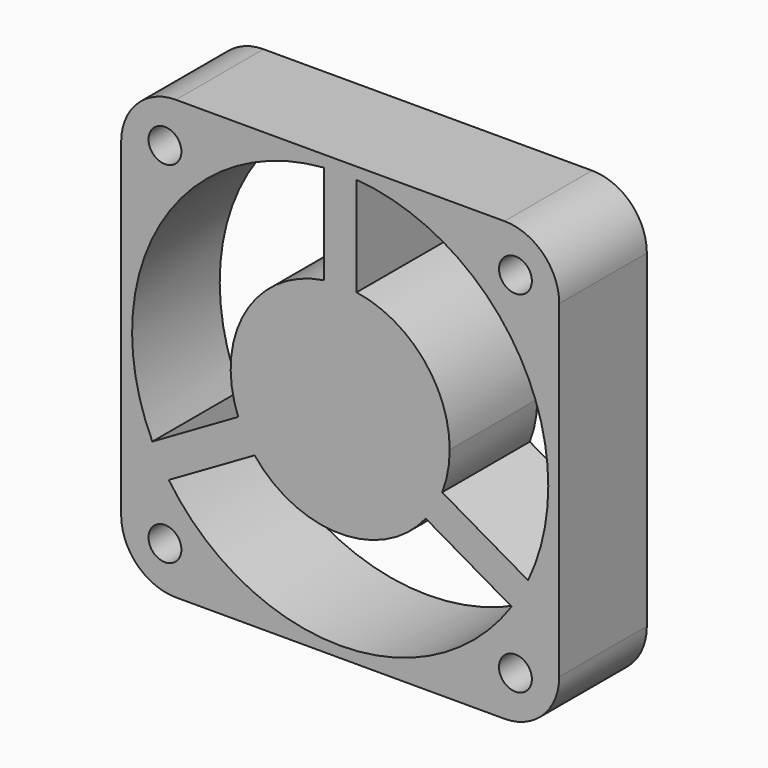
from build123d import *

# Parameters (mm, degrees)
F0_R     = 1.5
F1_DEPTH = 10


with BuildPart() as f1:
    # F0 (on Front) → F1 (new body)
    with BuildSketch(Plane.XZ):
        with BuildLine():
            Line((-15, -20), (15, -20))
            ThreePointArc((15, -20), (18.535534, -18.535534), (20, -15))
            Line((20, -15), (20, 15))
            ThreePointArc((20, 15), (18.535534, 18.535534), (15, 20))
            Line((15, 20), (-15, 20))
            ThreePointArc((-15, 20), (-18.535534, 18.535534), (-20, 15))
            Line((-20, 15), (-20, -15))
            ThreePointArc((-20, -15), (-18.535534, -18.535534), (-15, -20))
        make_face()
        with Locations((-16, -16)):
            Circle(F0_R, mode=Mode.SUBTRACT)
        with Locations((16, -16)):
            Circle(F0_R, mode=Mode.SUBTRACT)
        with Locations((-16, 16)):
            Circle(F0_R, mode=Mode.SUBTRACT)
        with BuildLine():
            ThreePointArc((1.5, 18.940697), (13.955286, 12.893797), (19, 0))
            ThreePointArc((19, 0), (18.53253, -4.188713), (17.153125, -8.17131))
            ThreePointArc((17.153125, -8.17131), (16.454483, -9.5), (15.653125, -10.769387))
            ThreePointArc((15.653125, -10.769387), (0, -19), (-15.653125, -10.769387))
            ThreePointArc((-15.653125, -10.769387), (-16.454483, -9.5), (-17.153125, -8.17131))
            ThreePointArc((-17.153125, -8.17131), (-16.454483, 9.5), (-1.5, 18.940697))
            ThreePointArc((-1.5, 18.940697), (0, 19), (1.5, 18.940697))
        make_face(mode=Mode.SUBTRACT)
        with Locations((16, 16)):
            Circle(F0_R, mode=Mode.SUBTRACT)
        with BuildLine():
            Line((1.5, 9.88686), (1.5, 18.940697))
            ThreePointArc((1.5, 18.940697), (0, 19), (-1.5, 18.940697))
            Line((-1.5, 18.940697), (-1.5, 9.88686))
            ThreePointArc((-1.5, 9.88686), (0, 10), (1.5, 9.88686))
        make_face()
        with BuildLine():
            Line((-9.312272, -3.644392), (-17.153125, -8.17131))
            ThreePointArc((-17.153125, -8.17131), (-16.454483, -9.5), (-15.653125, -10.769387))
            Line((-15.653125, -10.769387), (-7.812272, -6.242468))
            ThreePointArc((-7.812272, -6.242468), (-8.660254, -5), (-9.312272, -3.644392))
        make_face()
        with BuildLine():
            ThreePointArc((15.653125, -10.769387), (16.454483, -9.5), (17.153125, -8.17131))
            Line((17.153125, -8.17131), (9.312272, -3.644392))
            ThreePointArc((9.312272, -3.644392), (8.660254, -5), (7.812272, -6.242468))
            Line((7.812272, -6.242468), (15.653125, -10.769387))
        make_face()
        with BuildLine():
            ThreePointArc((10, 0), (7.582875, 6.519202), (1.5, 9.88686))
            ThreePointArc((1.5, 9.88686), (0, 10), (-1.5, 9.88686))
            ThreePointArc((-1.5, 9.88686), (-8.660254, 5), (-9.312272, -3.644392))
            ThreePointArc((-9.312272, -3.644392), (-8.660254, -5), (-7.812272, -6.242468))
            ThreePointArc((-7.812272, -6.242468), (0, -10), (7.812272, -6.242468))
            ThreePointArc((7.812272, -6.242468), (8.660254, -5), (9.312272, -3.644392))
            ThreePointArc((9.312272, -3.644392), (9.826564, -1.854357), (10, 0))
        make_face()
    extrude(amount=F1_DEPTH)


solid = f1.part
